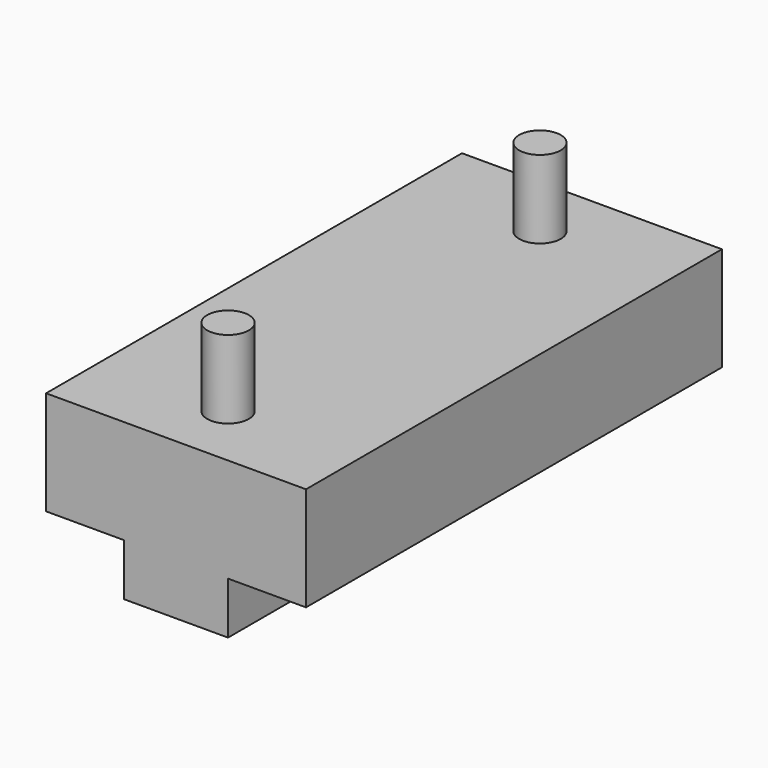
from build123d import *

# Parameters (mm, degrees)
F1_DEPTH = 100
F2_R     = 4
F3_DEPTH = 15


with BuildPart() as f1:
    # F0 (on Front) → F1 (new body)
    with BuildSketch(Plane.XZ):
        Polygon((0, 20), (0, 0), (15, 0), (15, -10), (35, -10), (35, 0), (50, 0), (50, 20), align=None)
    extrude(amount=F1_DEPTH)

    # F2 (on face) → F3 (join)
    with BuildSketch(Plane.XY.offset(20)):
        with Locations((25, -12.5)):
            Circle(F2_R)
        with Locations((25, -87.5)):
            Circle(F2_R)
    extrude(amount=F3_DEPTH)


solid = f1.part
